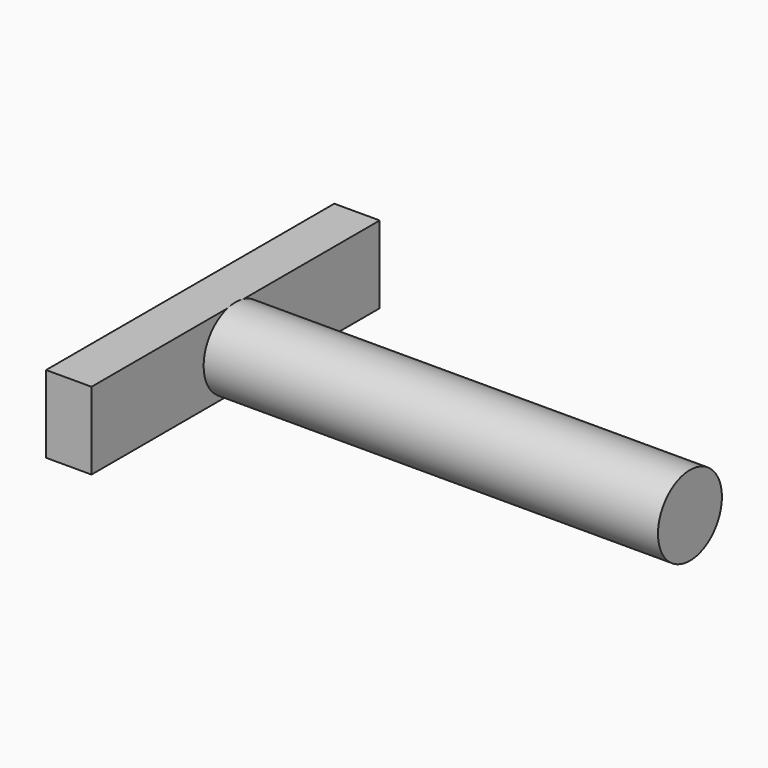
from build123d import *

# Parameters (mm, degrees)
F0_R     = 6.704343
F1_DEPTH = 76.2
F2_W     = 60.421344
F2_H     = 12.967138
F3_DEPTH = 7.62


with BuildPart() as f1:
    # F0 (on Right) → F1 (new body)
    with BuildSketch(Plane.YZ):
        Circle(F0_R)
    extrude(amount=F1_DEPTH)

    # F2 (on face) → F3 (join)
    with BuildSketch(Plane(origin=(0, 0, 0), x_dir=(0, -1, 0), z_dir=(-1, 0, 0))):
        Rectangle(F2_W, F2_H)
    extrude(amount=F3_DEPTH)


solid = f1.part
